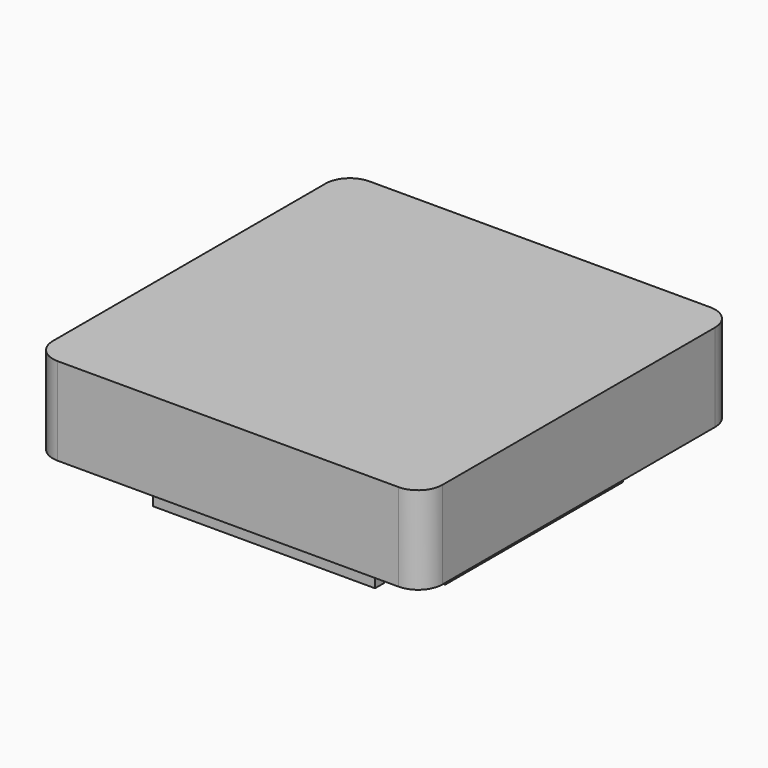
from build123d import *

# Parameters (mm, degrees)
PAD087_DEPTH          = 4.5
POLARPATTERN008_COUNT = 4
PAD088_DEPTH          = 2
POLARPATTERN009_COUNT = 4


with BuildPart() as part:
    # Sketch179 → Pad087 (new body)
    with BuildSketch(Plane.XY):
        with BuildLine():
            Line((0, 0), (0, 10))
            Line((-8.75, 10), (0, 10))
            ThreePointArc((-8.75, 10), (-9.633883, 9.633883), (-10, 8.75))
            Line((-10, 0), (-10, 8.75))
            Line((0, 0), (-10, 0))
        make_face()
    pad087 = extrude(amount=PAD087_DEPTH)

    # PolarPattern008: Pad087 ×4 about axis
    polarpattern008_axis = Axis((0, 0, 0), (0, 0, 1))
    for i in range(1, POLARPATTERN008_COUNT):
        add(pad087.rotate(polarpattern008_axis, i * 360 / POLARPATTERN008_COUNT))

    # Sketch178 → Pad088 (join)
    with BuildSketch(Plane.XY):
        Polygon((-5.7, 7.124264), (-2.875736, 4.3), (2.875736, 4.3), (5.7, 7.124264), (5.7, 7.7), (-5.7, 7.7), align=None)
    pad088 = extrude(amount=-PAD088_DEPTH)

    # PolarPattern009: Pad088 ×4 about axis
    polarpattern009_axis = Axis((0, 0, 0), (0, 0, 1))
    for i in range(1, POLARPATTERN009_COUNT):
        add(pad088.rotate(polarpattern009_axis, i * 360 / POLARPATTERN009_COUNT))


solid = part.part
